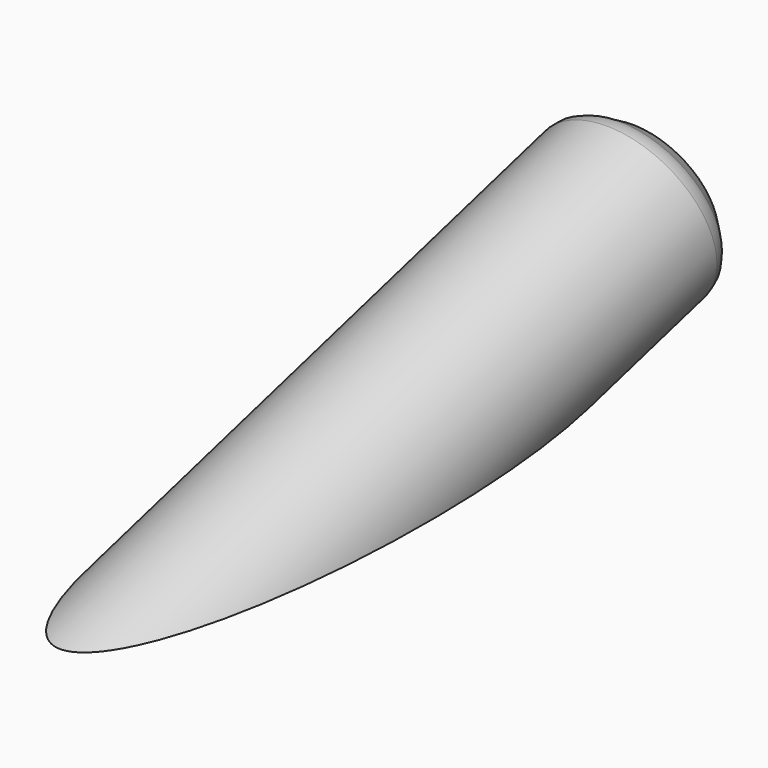
from build123d import *

# Parameters (mm, degrees)
F2_R     = 4.5
F3_DEPTH = 20
F4_W     = 24.8413860019
F4_H     = 60.8130074764
F5_DEPTH = 25
F7_SIZE  = 1
F8_R     = 1


with BuildPart() as f3:
    # F2 (on line) → F3 (new body, symmetric)
    with BuildSketch(Plane(origin=(0, 0, 0), x_dir=(-1, 0, 0), z_dir=(0, 0.9659258263, 0.2588190451))):
        Circle(F2_R)
    extrude(amount=F3_DEPTH, both=True)

    # F4 (on Top) → F5 (cut)
    with BuildSketch(Plane.XY):
        Rectangle(F4_W, F4_H)
    extrude(amount=-F5_DEPTH, mode=Mode.SUBTRACT)

    # F7
    f7_edges = [f3.edges().sort_by_distance(p)[0] for p in [
        (4.5, 19.318517, 5.176381),
    ]]
    chamfer(f7_edges, length=F7_SIZE)

    # F8
    f8_edges = [f3.edges().sort_by_distance(p)[0] for p in [
        (4.5, 18.352591, 4.917562),
    ]]
    fillet(f8_edges, radius=F8_R)


solid = f3.part
